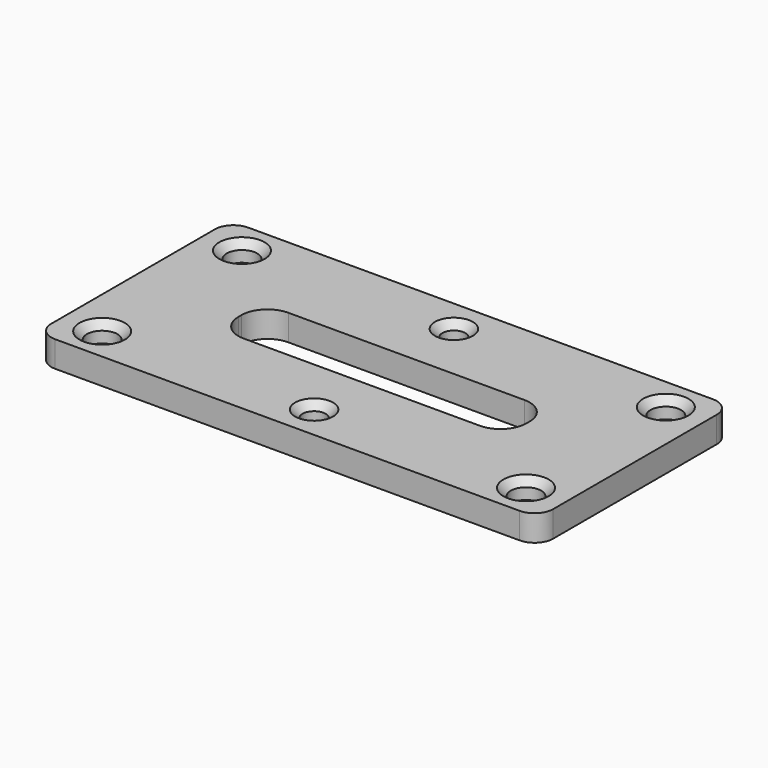
from build123d import *

# Parameters (mm, degrees)
F0_R     = 4.1
F0_R_2   = 3.1
F1_DEPTH = 7
F2_SIZE  = 2


with BuildPart() as f1:
    # F0 (on Top) → F1 (new body)
    with BuildSketch(Plane.XY):
        with BuildLine():
            ThreePointArc((67.5, 27.5), (66.035534, 31.035534), (62.5, 32.5))
            Line((62.5, 32.5), (-62.5, 32.5))
            ThreePointArc((-62.5, 32.5), (-66.035534, 31.035534), (-67.5, 27.5))
            Line((-67.5, 27.5), (-67.5, -27.5))
            ThreePointArc((-67.5, -27.5), (-66.035534, -31.035534), (-62.5, -32.5))
            Line((-62.5, -32.5), (62.5, -32.5))
            ThreePointArc((62.5, -32.5), (66.035534, -31.035534), (67.5, -27.5))
            Line((67.5, -27.5), (67.5, 27.5))
        make_face()
        with Locations((-57, -23.5)):
            Circle(F0_R, mode=Mode.SUBTRACT)
        with Locations((0, -23.5)):
            Circle(F0_R_2, mode=Mode.SUBTRACT)
        with Locations((57, -23.5)):
            Circle(F0_R, mode=Mode.SUBTRACT)
        with Locations((-57, 23.5)):
            Circle(F0_R, mode=Mode.SUBTRACT)
        with BuildLine():
            Line((-31.75, 7.5), (31.75, 7.5))
            ThreePointArc((31.75, 7.5), (36.699747, 5.449747), (38.75, 0.5))
            Line((38.75, 0.5), (38.75, -0.5))
            ThreePointArc((38.75, -0.5), (36.699747, -5.449747), (31.75, -7.5))
            Line((31.75, -7.5), (-31.75, -7.5))
            ThreePointArc((-31.75, -7.5), (-36.699747, -5.449747), (-38.75, -0.5))
            Line((-38.75, -0.5), (-38.75, 0.5))
            ThreePointArc((-38.75, 0.5), (-36.699747, 5.449747), (-31.75, 7.5))
        make_face(mode=Mode.SUBTRACT)
        with Locations((0, 23.5)):
            Circle(F0_R_2, mode=Mode.SUBTRACT)
        with Locations((57, 23.5)):
            Circle(F0_R, mode=Mode.SUBTRACT)
    extrude(amount=F1_DEPTH)

    # F2
    f2_edges = [f1.edges().sort_by_distance(p)[0] for p in [
        (-52.9, -23.5, 3.5),
        (-61.1, -23.5, 0),
        (-61.1, -23.5, 7),
        (-52.9, 23.5, 3.5),
        (-61.1, 23.5, 0),
        (-61.1, 23.5, 7),
        (3.1, 23.5, 3.5),
        (-3.1, 23.5, 0),
        (-3.1, 23.5, 7),
        (61.1, 23.5, 3.5),
        (52.9, 23.5, 0),
        (52.9, 23.5, 7),
        (61.1, -23.5, 3.5),
        (52.9, -23.5, 0),
        (52.9, -23.5, 7),
        (3.1, -23.5, 3.5),
        (-3.1, -23.5, 0),
        (-3.1, -23.5, 7),
    ]]
    chamfer(f2_edges, length=F2_SIZE)


solid = f1.part
